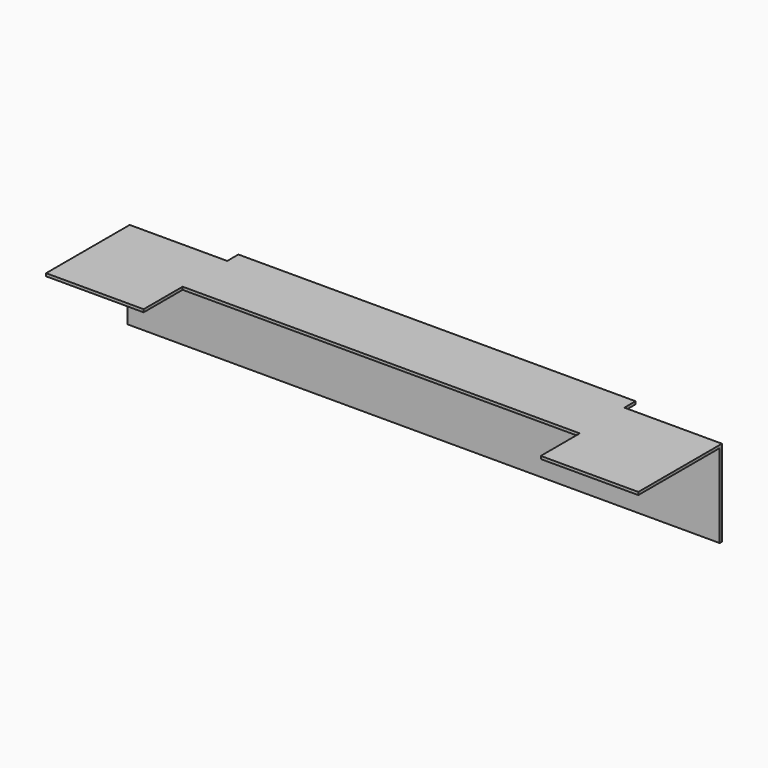
from build123d import *

# Parameters (mm, degrees)
F0_W     = 285
F0_H     = 40
F0_H_2   = 10
F1_DEPTH = 2
F3_W     = 425
F3_H     = 60
F4_DEPTH = 2


with BuildPart() as f1:
    # F0 (on Top) → F1 (new body)
    with BuildSketch(Plane.XY):
        Polygon((-142.5, -50), (-142.5, -10), (-212.5, -10), (-212.5, -85), (-142.5, -85), align=None)
        with Locations((0, -30)):
            Rectangle(F0_W, F0_H)
        with Locations((0, -5)):
            Rectangle(F0_W, F0_H_2)
        Polygon((212.5, -10), (142.5, -10), (142.5, -50), (142.5, -85), (212.5, -85), align=None)
    extrude(amount=F1_DEPTH)


with BuildPart() as f4:
    # F3 (on offset) → F4 (new body)
    with BuildSketch(Plane.XZ.offset(10)):
        with Locations((0, -30)):
            Rectangle(F3_W, F3_H)
    extrude(amount=F4_DEPTH)


solid = Compound([f1.part, f4.part])
